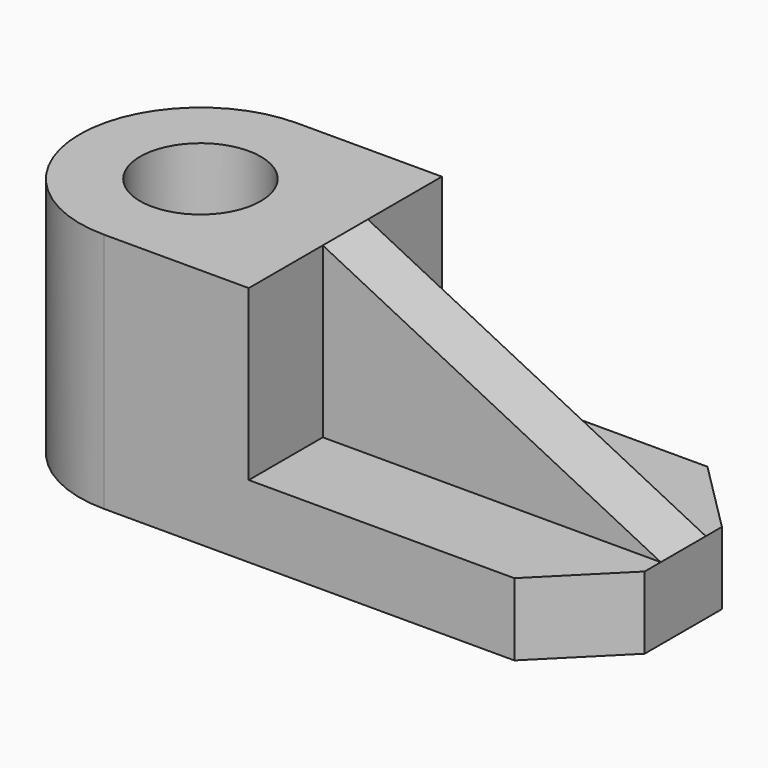
from build123d import *

# Parameters (mm, degrees)
PAD_DEPTH       = 30
SKETCH002_R     = 7.5
POCKET001_DEPTH = 30
SKETCH004_W     = 42
SKETCH004_H     = 30
POCKET_DEPTH    = 21
PAD001_DEPTH    = 3.5


with BuildPart() as part:
    # Sketch → Pad (new body)
    with BuildSketch(Plane.XY):
        with BuildLine():
            Line((0, 15), (51, 15))
            Line((51, 15), (60, 6))
            Line((60, 6), (60, -6))
            Line((51, -15), (60, -6))
            Line((51, -15), (0, -15))
            ThreePointArc((0, 15), (-15, 0), (0, -15))
        make_face()
    extrude(amount=PAD_DEPTH)

    # Sketch002 → Pocket001 (cut)
    with BuildSketch(Plane.XY.offset(30)):
        Circle(SKETCH002_R)
    extrude(amount=-POCKET001_DEPTH, mode=Mode.SUBTRACT)

    # Sketch004 → Pocket (cut)
    with BuildSketch(Plane.XY.offset(30)):
        with Locations((39, 0)):
            Rectangle(SKETCH004_W, SKETCH004_H)
    extrude(amount=-POCKET_DEPTH, mode=Mode.SUBTRACT)

    # Sketch003 → Pad001 (join, symmetric)
    with BuildSketch(Plane.XZ):
        Polygon((18, 30), (18, 9), (60, 9), align=None)
    extrude(amount=PAD001_DEPTH, both=True)


solid = part.part
